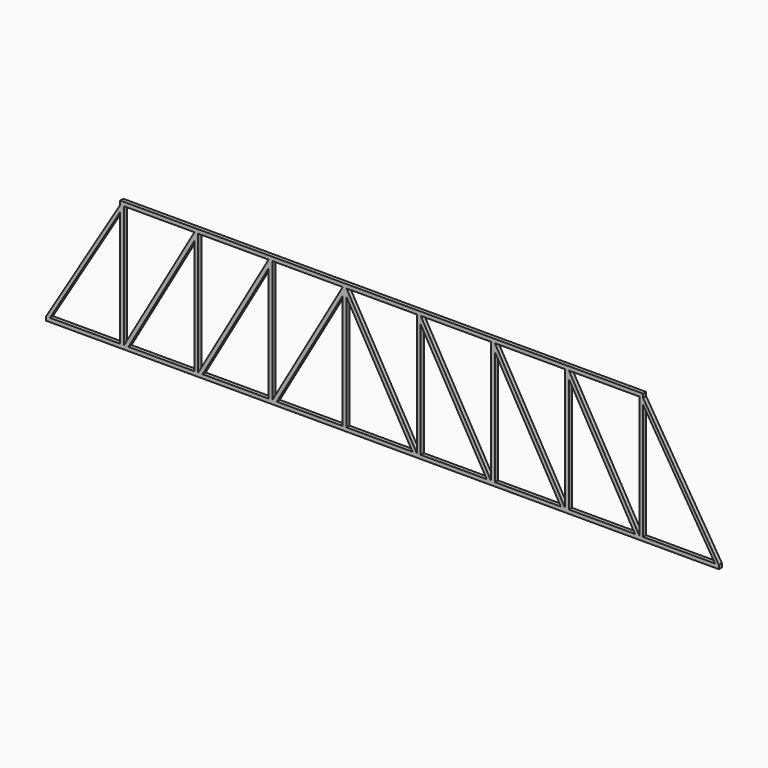
from build123d import *

# Parameters (mm, degrees)
F1_DEPTH = 1.5875


with BuildPart() as f1:
    # F0 (on Front) → F1 (new body, symmetric)
    with BuildSketch(Plane.XZ):
        Polygon((-217.805, 103.1875), (-279.4, 1.5875), (-276.225, 1.5875), (-217.805, 97.950387), align=None)
        Polygon((-279.4, -1.5875), (279.4, -1.5875), (279.4, 1.5875), (276.225, 1.5875), (216.535, 1.5875), (213.36, 1.5875), (209.697551, 1.5875), (154.94, 1.5875), (151.765, 1.5875), (148.102551, 1.5875), (93.345, 1.5875), (90.17, 1.5875), (86.507551, 1.5875), (31.75, 1.5875), (28.575, 1.5875), (24.912551, 1.5875), (-29.845, 1.5875), (-33.02, 1.5875), (-87.777551, 1.5875), (-91.44, 1.5875), (-94.615, 1.5875), (-149.372551, 1.5875), (-153.035, 1.5875), (-156.21, 1.5875), (-210.967551, 1.5875), (-214.63, 1.5875), (-217.805, 1.5875), (-276.225, 1.5875), (-279.4, 1.5875), align=None)
        Polygon((213.36, 103.1875), (216.535, 103.1875), (216.535, 106.3625), (-217.805, 106.3625), (-217.805, 103.1875), (-214.63, 103.1875), (-156.21, 103.1875), (-153.035, 103.1875), (-94.615, 103.1875), (-91.44, 103.1875), (-33.02, 103.1875), (-29.845, 103.1875), (28.575, 103.1875), (31.75, 103.1875), (90.17, 103.1875), (93.345, 103.1875), (151.765, 103.1875), (154.94, 103.1875), align=None)
        Polygon((-214.63, 103.1875), (-217.805, 103.1875), (-217.805, 97.950387), (-217.805, 1.5875), (-214.63, 1.5875), align=None)
        Polygon((-156.21, 103.1875), (-214.63, 1.5875), (-210.967551, 1.5875), (-156.21, 96.818024), align=None)
        Polygon((-153.035, 103.1875), (-156.21, 103.1875), (-156.21, 96.818024), (-156.21, 1.5875), (-153.035, 1.5875), align=None)
        Polygon((-94.615, 103.1875), (-153.035, 1.5875), (-149.372551, 1.5875), (-94.615, 96.818024), align=None)
        Polygon((-91.44, 103.1875), (-94.615, 103.1875), (-94.615, 96.818024), (-94.615, 1.5875), (-91.44, 1.5875), align=None)
        Polygon((-33.02, 103.1875), (-91.44, 1.5875), (-87.777551, 1.5875), (-33.02, 96.818024), align=None)
        Polygon((-29.845, 103.1875), (-33.02, 103.1875), (-33.02, 96.818024), (-33.02, 1.5875), (-29.845, 1.5875), (-29.845, 96.818024), align=None)
        Polygon((31.75, 96.818024), (31.75, 103.1875), (28.575, 103.1875), (28.575, 1.5875), (31.75, 1.5875), align=None)
        Polygon((28.575, 1.5875), (-29.845, 103.1875), (-29.845, 96.818024), (24.912551, 1.5875), align=None)
        Polygon((86.507551, 1.5875), (90.17, 1.5875), (31.75, 103.1875), (31.75, 96.818024), align=None)
        Polygon((93.345, 96.818024), (93.345, 103.1875), (90.17, 103.1875), (90.17, 1.5875), (93.345, 1.5875), align=None)
        Polygon((148.102551, 1.5875), (151.765, 1.5875), (93.345, 103.1875), (93.345, 96.818024), align=None)
        Polygon((154.94, 96.818024), (154.94, 103.1875), (151.765, 103.1875), (151.765, 1.5875), (154.94, 1.5875), align=None)
        Polygon((209.697551, 1.5875), (213.36, 1.5875), (154.94, 103.1875), (154.94, 96.818024), align=None)
        Polygon((276.225, 1.5875), (279.4, 1.5875), (216.535, 103.1875), (216.535, 98.056187), align=None)
        Polygon((216.535, 98.056187), (216.535, 103.1875), (213.36, 103.1875), (213.36, 1.5875), (216.535, 1.5875), align=None)
    extrude(amount=F1_DEPTH, both=True)


solid = f1.part
